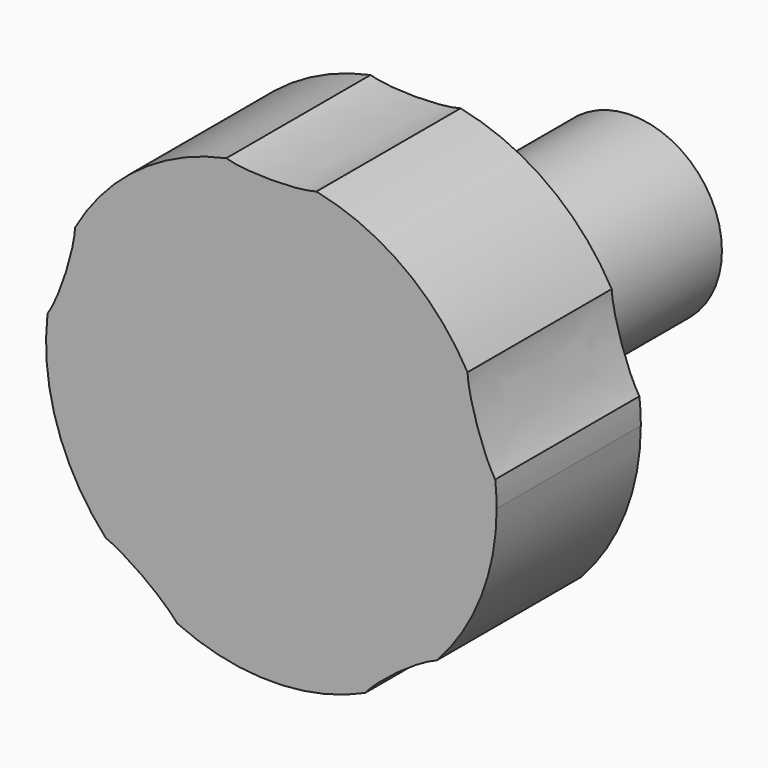
from build123d import *

# Parameters (mm, degrees)
F0_R     = 5
F1_DEPTH = 25
F2_DEPTH = 10


with BuildPart() as f1:
    # F0 (on Front) → F1 (new body)
    with BuildSketch(Plane.XZ):
        Circle(F0_R)
    extrude(amount=-F1_DEPTH)

    # F0 (on Front) → F2 (join)
    with BuildSketch(Plane.XZ):
        with BuildLine():
            ThreePointArc((10.8845513989, 6.1462623475), (7.3547721112, 10.1072907939), (2.5, 12.2474487139))
            add(Edge.make_bspline(
                [(-2.5, 12.2474487139), (0, 11.5101020514), (2.5, 12.2474487139)],
                knots=[0.5295008084, 0.5295008084, 0.5295008084, 2.6120918452, 2.6120918452, 2.6120918452], degree=2, weights=[1, 0.5051025722, 1]))
            ThreePointArc((-2.5, 12.2474487139), (-7.3594746101, 10.1038672529), (-10.8902668496, 6.1361297203))
            add(Edge.make_bspline(
                [(-12.4183614967, 1.4262880979), (-10.9820454119, 3.5733899362), (-10.8902668496, 6.1361297203)],
                knots=[0.5483081022, 0.5483081022, 0.5483081022, 2.5982377345, 2.5982377345, 2.5982377345], degree=2, weights=[1, 0.5191289586, 1]))
            ThreePointArc((-12.4183614967, 1.4262880979), (-11.883327852, -3.8776950837), (-9.1869736579, -8.4764093228))
            add(Edge.make_bspline(
                [(-5.2222037532, -11.35687404), (-6.8105963999, -9.3736670378), (-9.1869736579, -8.4764093228)],
                knots=[0.5626274917, 0.5626274917, 0.5626274917, 2.5791740982, 2.5791740982, 2.5791740982], degree=2, weights=[1, 0.5333221495, 1]))
            ThreePointArc((-5.2222037532, -11.35687404), (-0.008685173, -12.4999969827), (5.2064168882, -11.3641199917))
            add(Edge.make_bspline(
                [(9.1879155932, -8.4753883128), (6.8082361023, -9.3588262471), (5.2064168882, -11.3641199917)],
                knots=[0.5527221385, 0.5527221385, 0.5527221385, 2.5812548422, 2.5812548422, 2.5812548422], degree=2, weights=[1, 0.5282430094, 1]))
            ThreePointArc((9.1879155932, -8.4753883128), (11.6425715569, -4.5497832413), (12.5, 0))
            ThreePointArc((12.5, 0), (12.4800818706, 0.7053768519), (12.4203909595, 1.4085057378))
            add(Edge.make_bspline(
                [(10.8845513989, 6.1462623475), (10.9593557736, 3.5694882441), (12.4203909595, 1.4085057378)],
                knots=[0.53219448, 0.53219448, 0.53219448, 2.6015416859, 2.6015416859, 2.6015416859], degree=2, weights=[1, 0.510806562, 1]))
        make_face()
        Circle(F0_R, mode=Mode.SUBTRACT)
    extrude(amount=-F2_DEPTH)


solid = f1.part
